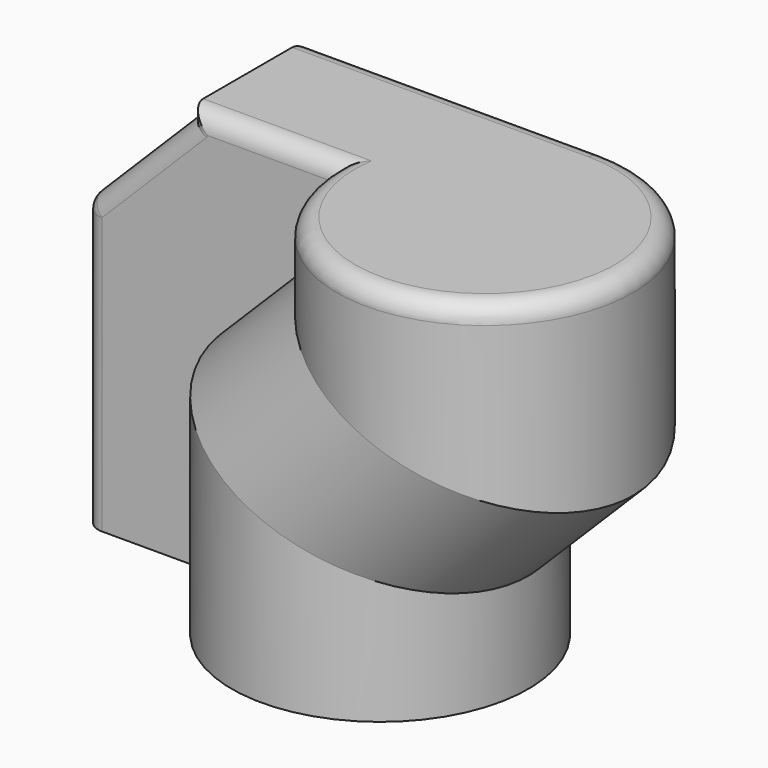
from build123d import *

# Parameters (mm, degrees)
F3_R = 3.175


with BuildPart() as f2:
    # F2: sweep along a path in F1
    with BuildLine(Plane.XZ) as f2_path:
        Line((25.4, 0), (25.4, 38.1))
        Line((25.4, 38.1), (43.3605122421, 56.0605122421))
        Line((43.3605122421, 56.0605122421), (43.3605122421, 68.7605122421))
    # F0 (on Top) → F2 (sweep)
    with BuildSketch(Plane.XY):
        with BuildLine():
            Line((50.8, 0), (0, 0))
            Line((0, 0), (0, -25.4))
            Line((0, -25.4), (25.4, -25.4))
            ThreePointArc((25.4, -25.4), (68.7605122421, -43.3605122421), (50.8, 0))
        make_face()
    sweep(path=f2_path.line, transition=Transition.RIGHT)

    # F3
    f3_edges = [f2.edges().sort_by_distance(p)[0] for p in [
        (8.980256, -25.4, 57.601281),
        (0, -25.4, 24.310512),
        (0, -12.7, 48.621024),
        (0, 0, 24.310512),
        (8.980256, 0, 57.601281),
        (17.960512, -25.4, 67.671024),
        (30.660512, -25.4, 68.760512),
        (17.960512, 0, 67.671024),
        (43.360512, 0, 68.760512),
    ]]
    fillet(f3_edges, radius=F3_R)


solid = f2.part
